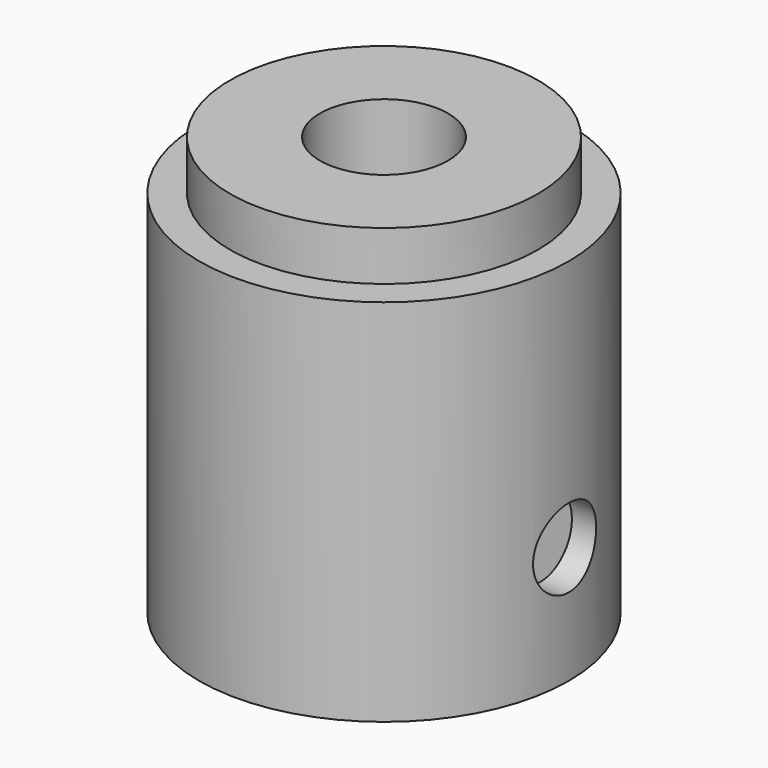
from build123d import *

# Parameters (mm, degrees)
F2_W     = 2.54
F2_H     = 5.588
F3_DEPTH = 9.525
F5_D     = 3.2
F5_DEPTH = 7.5067


with BuildPart() as f1:
    # F0 (on Front) → F1 (revolve)
    with BuildSketch(Plane.XZ):
        Polygon((2.6, 17), (2.6, 0), (7.5057, 0), (7.5057, 15), (6.25, 15), (6.25, 17), align=None)
    revolve(axis=Axis((0, 0, 12.7238426358), (0, 0, -1)))

    # F2 (on face) → F3 (cut)
    with BuildSketch(Plane(origin=(0, 0, 0), x_dir=(1, 0, 0), z_dir=(0, 0, -1))):
        with Locations((5.08, 0)):
            Rectangle(F2_W, F2_H)
    extrude(amount=-F3_DEPTH, mode=Mode.SUBTRACT)

    # F5 (through all, one way)
    with BuildSketch(Plane(origin=(0, 0, 0), x_dir=(0, 1, 0), z_dir=(-1, 0, 0))):
        with Locations((0, -4.7625)):
            Circle(F5_D / 2)
    extrude(amount=-F5_DEPTH, mode=Mode.SUBTRACT)


solid = f1.part
